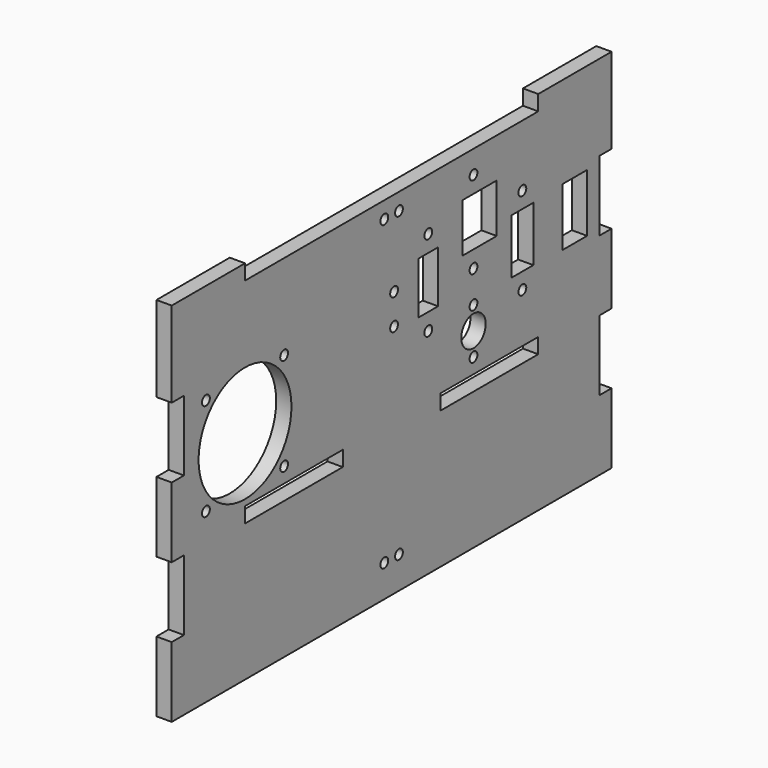
from build123d import *

# Parameters (mm, degrees)
F0_R     = 1.6
F0_W     = 40
F0_H     = 5
F0_W_2   = 10
F0_H_2   = 19
F7_DEPTH = 5
F1_R     = 1.6
F1_W     = 9
F1_H     = 18
F2_R     = 1.6
F2_W     = 14
F2_H     = 16
F3_R     = 1.6
F3_R_2   = 5
F4_R     = 19
F4_R_2   = 1.6
F5_W     = 8
F5_H     = 17
F5_R     = 1.6
F6_R     = 1.6
F8_DEPTH = 5


with BuildPart() as f7:
    # F0 (on Right) → F7 (new body)
    with BuildSketch(Plane.YZ):
        Polygon((90, 32), (90, 60), (60, 60), (60, 55), (-60, 55), (-60, 60), (-90, 60), (-90, 32), (-85, 32), (-85, 9), (-90, 9), (-90, -14), (-85, -14), (-85, -37), (-90, -37), (-90, -60), (90, -60), (90, -37), (85, -37), (85, -23.46749), (85, -14), (90, -14), (90, 9), (85, 9), (85, 32), align=None)
        with Locations((-3, -49.5)):
            Circle(F0_R, mode=Mode.SUBTRACT)
        with Locations((-40, -12.5)):
            Rectangle(F0_W, F0_H, mode=Mode.SUBTRACT)
        with Locations((3, -49.5)):
            Circle(F0_R, mode=Mode.SUBTRACT)
        with Locations((40, -12.5)):
            Rectangle(F0_W, F0_H, mode=Mode.SUBTRACT)
        with Locations((-3, 49.5)):
            Circle(F0_R, mode=Mode.SUBTRACT)
        with Locations((75, 20.5)):
            Rectangle(F0_W_2, F0_H_2, mode=Mode.SUBTRACT)
        with Locations((3, 49.5)):
            Circle(F0_R, mode=Mode.SUBTRACT)
    extrude(amount=F7_DEPTH)

    # F1 (on face) + F2 (on face) + F3 (on face) + F4 (on face) + F5 (on face) + F6 (on face) → F8 (cut)
    with BuildSketch(Plane.YZ):
        with Locations((53.5, 34.8)):
            Circle(F1_R)
        with Locations((53.5, 6.2)):
            Circle(F1_R)
        with Locations((53.5, 20.5)):
            Rectangle(F1_W, F1_H)
    with BuildSketch(Plane.YZ):
        with Locations((33.5, 47.5)):
            Circle(F2_R)
        with Locations((33.5, 20.5)):
            Circle(F2_R)
        with Locations((36, 34)):
            Rectangle(F2_W, F2_H)
    with BuildSketch(Plane.YZ):
        with Locations((33.5, 10)):
            Circle(F3_R)
        with Locations((33.5, -5)):
            Circle(F3_R)
        with Locations((33.5, 2.5)):
            Circle(F3_R_2)
    with BuildSketch(Plane.YZ):
        with Locations((-60, 11)):
            Circle(F4_R)
        with Locations((-44, 27)):
            Circle(F4_R_2)
        with Locations((-76, 27)):
            Circle(F4_R_2)
        with Locations((-76, -5)):
            Circle(F4_R_2)
        with Locations((-44, -5)):
            Circle(F4_R_2)
    with BuildSketch(Plane.YZ):
        with Locations((15, 24)):
            Rectangle(F5_W, F5_H)
        with Locations((15, 38)):
            Circle(F5_R)
        with Locations((15, 10)):
            Circle(F5_R)
    with BuildSketch(Plane.YZ):
        with Locations((1, 17)):
            Circle(F6_R)
        with Locations((1, 27)):
            Circle(F6_R)
    extrude(amount=F8_DEPTH, mode=Mode.SUBTRACT)


solid = f7.part
